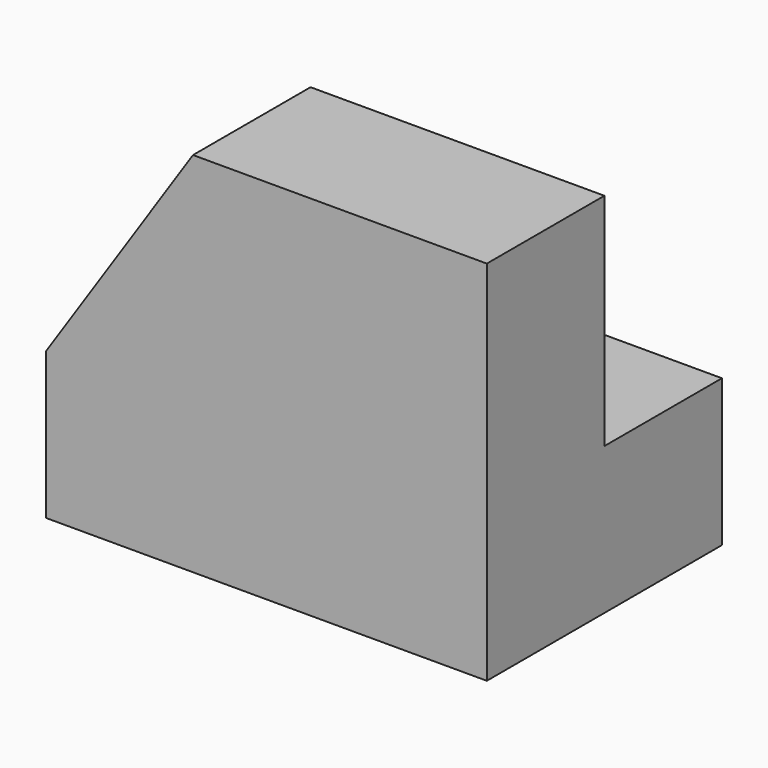
from build123d import *

# Parameters (mm, degrees)
F1_DEPTH = 38.1
F3_DEPTH = 12.701
F5_DEPTH = 12.701


with BuildPart() as f1:
    # F0 (on Right) → F1 (new body)
    with BuildSketch(Plane.YZ):
        Polygon((-12.7, 31.75), (-25.4, 31.75), (-25.4, 0), (0, 0), (0, 12.7), (-12.7, 12.7), align=None)
    extrude(amount=F1_DEPTH)

    # F2 (on face) → F3 (cut, through all)
    with BuildSketch(Plane(origin=(0, -12.7, 0), x_dir=(-1, 0, 0), z_dir=(0, 1, 0))):
        Polygon((0, 31.75), (-12.7, 31.75), (0, 12.7), align=None)
    extrude(amount=-F3_DEPTH, mode=Mode.SUBTRACT)

    # F4 (on face) → F5 (cut, through all)
    with BuildSketch(Plane.XY.offset(12.7)):
        Polygon((0, 0), (0, -12.7), (10.356766, 0), align=None)
    extrude(amount=-F5_DEPTH, mode=Mode.SUBTRACT)


solid = f1.part
